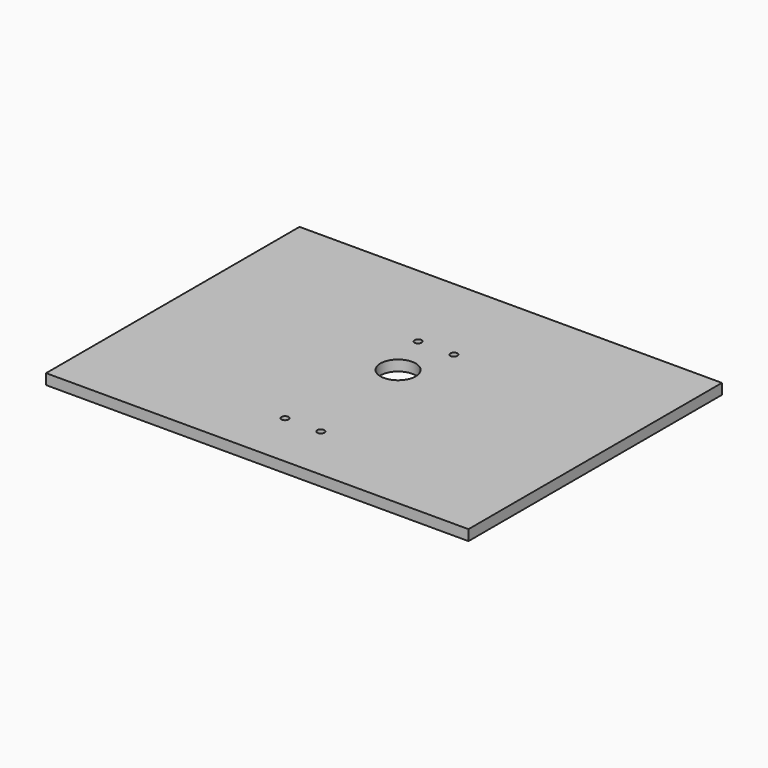
from build123d import *

# Parameters (mm, degrees)
F0_W     = 120
F0_H     = 90
F0_R     = 1
F0_R_2   = 5
F1_DEPTH = 3
F2_R     = 5
F2_R_2   = 1
F3_DEPTH = 3.001


with BuildPart() as f1:
    # F0 (on Top) → F1 (new body)
    with BuildSketch(Plane.XY):
        Rectangle(F0_W, F0_H)
        with Locations((-5.085, -18.47)):
            Circle(F0_R, mode=Mode.SUBTRACT)
        with Locations((5.09234, -18.47)):
            Circle(F0_R, mode=Mode.SUBTRACT)
        with Locations((0, -5)):
            Circle(F0_R_2, mode=Mode.SUBTRACT)
        with Locations((-5.085, 28.79)):
            Circle(F0_R, mode=Mode.SUBTRACT)
        with Locations((5.09234, 28.79)):
            Circle(F0_R, mode=Mode.SUBTRACT)
        with Locations((0, -5)):
            Circle(F0_R_2)
        with Locations((5.09234, 28.79)):
            Circle(F0_R)
        with Locations((-5.085, 28.79)):
            Circle(F0_R)
        with Locations((-5.085, -18.47)):
            Circle(F0_R)
        with Locations((5.09234, -18.47)):
            Circle(F0_R)
    extrude(amount=F1_DEPTH)

    # F2 (on face) → F3 (cut, through all)
    with BuildSketch(Plane.XY.offset(3)):
        with Locations((0, 5)):
            Circle(F2_R)
        with Locations((5.085, -28.79)):
            Circle(F2_R_2)
        with Locations((-5.085, -28.79)):
            Circle(F2_R_2)
        with Locations((5.085, 18.47)):
            Circle(F2_R_2)
        with Locations((-5.085, 18.47)):
            Circle(F2_R_2)
    extrude(amount=-F3_DEPTH, mode=Mode.SUBTRACT)


solid = f1.part
